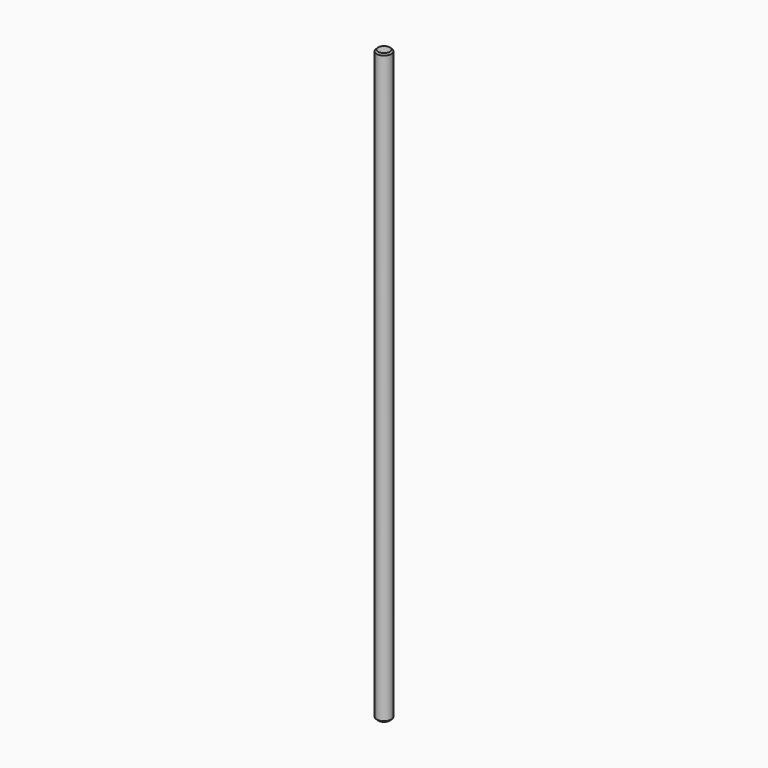
from build123d import *

# Parameters (mm, degrees)
CYLINDER_R     = 5
CYLINDER_DEPTH = 400
CHAMFER_SIZE   = 1


with BuildPart() as part:
    # Cylinder → Cylinder (new body)
    with BuildSketch(Plane.XY):
        Circle(CYLINDER_R)
    extrude(amount=CYLINDER_DEPTH)

    # Chamfer
    chamfer_edges = [part.edges().sort_by_distance(p)[0] for p in [
        (-5, 0, 400),
        (-5, 0, 0),
    ]]
    chamfer(chamfer_edges, length=CHAMFER_SIZE)


solid = part.part
